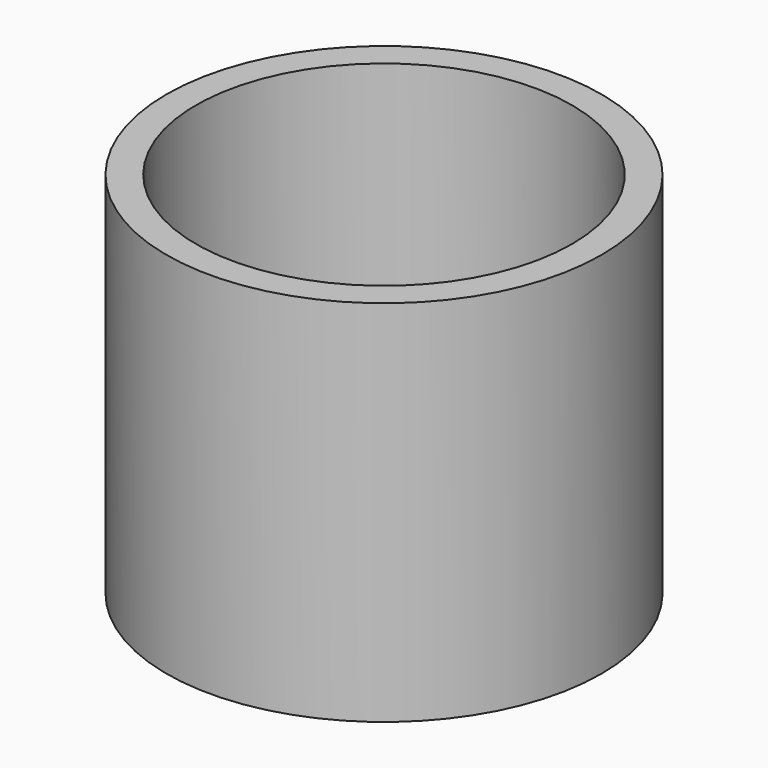
from build123d import *

# Parameters (mm, degrees)
F0_R     = 14.75
F1_DEPTH = 25
F2_R     = 12.75
F3_DEPTH = 22
F4_R     = 6.5
F5_DEPTH = 25


with BuildPart() as f1:
    # F0 (on Top) → F1 (new body)
    with BuildSketch(Plane.XY):
        Circle(F0_R)
    extrude(amount=F1_DEPTH)

    # F2 (on face) → F3 (cut)
    with BuildSketch(Plane.XY.offset(25)):
        Circle(F2_R)
    extrude(amount=-F3_DEPTH, mode=Mode.SUBTRACT)

    # F4 (on face) → F5 (cut)
    with BuildSketch(Plane(origin=(0, 0, 0), x_dir=(1, 0, 0), z_dir=(0, 0, -1))):
        Circle(F4_R)
    extrude(amount=-F5_DEPTH, mode=Mode.SUBTRACT)


solid = f1.part
